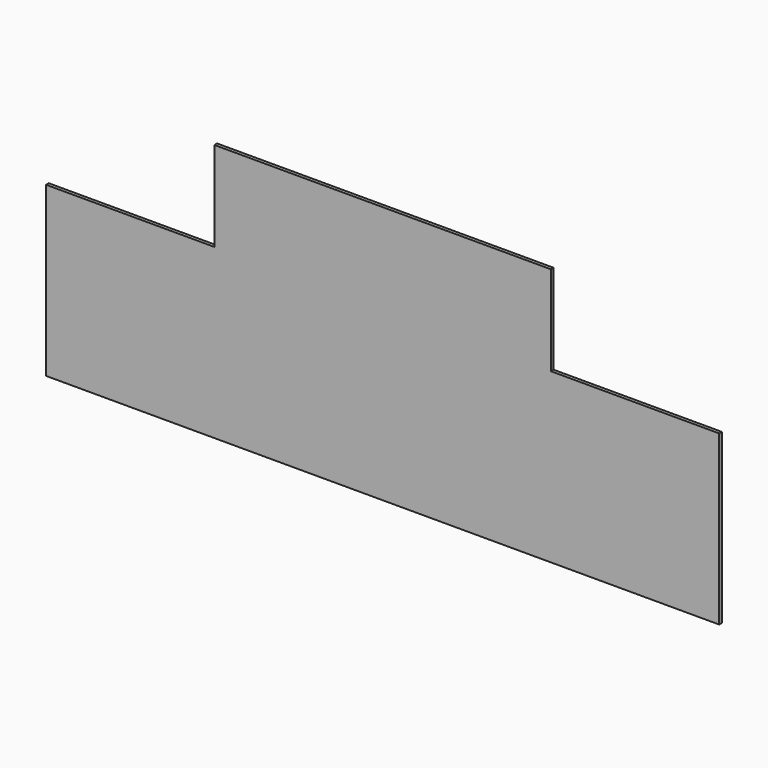
from build123d import *

# Parameters (mm, degrees)
F0_W     = 600
F0_H     = 230
F1_DEPTH = 3
F2_W     = 150
F2_H     = 80
F3_DEPTH = 3.001
F4_W     = 150
F4_H     = 80
F5_DEPTH = 3.001


with BuildPart() as f1:
    # F0 (on Front) → F1 (new body)
    with BuildSketch(Plane.XZ):
        Rectangle(F0_W, F0_H)
    extrude(amount=F1_DEPTH)

    # F2 (on face) → F3 (cut, through all)
    with BuildSketch(Plane.XZ.offset(3)):
        with Locations((-225, 75)):
            Rectangle(F2_W, F2_H)
    extrude(amount=-F3_DEPTH, mode=Mode.SUBTRACT)

    # F4 (on face) → F5 (cut, through all)
    with BuildSketch(Plane.XZ.offset(3)):
        with Locations((225, 75)):
            Rectangle(F4_W, F4_H)
    extrude(amount=-F5_DEPTH, mode=Mode.SUBTRACT)


solid = f1.part
